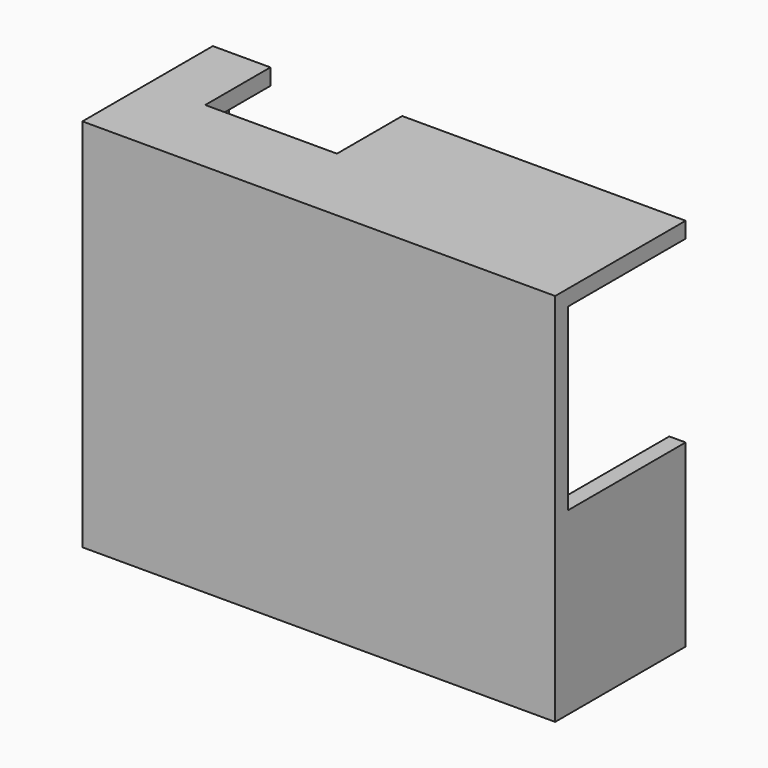
from build123d import *

# Parameters (mm, degrees)
F0_W     = 29
F0_H     = 23
F0_W_2   = 27
F0_H_2   = 21
F1_DEPTH = 10
F2_DEPTH = 9
F3_W     = 1.23707
F3_H     = 11.001679
F4_DEPTH = 9
F5_W     = 8.081423
F5_H     = 0.370867
F6_DEPTH = 5


with BuildPart() as f1:
    # F0 (on Front) → F1 (new body)
    with BuildSketch(Plane.XZ):
        Rectangle(F0_W, F0_H)
        Rectangle(F0_W_2, F0_H_2, mode=Mode.SUBTRACT)
        Rectangle(F0_W_2, F0_H_2)
    extrude(amount=F1_DEPTH)

    # F0 (on Front) → F2 (cut)
    with BuildSketch(Plane.XZ):
        Rectangle(F0_W_2, F0_H_2)
    extrude(amount=F2_DEPTH, mode=Mode.SUBTRACT)

    # F3 (on face) → F4 (cut)
    with BuildSketch(Plane.XZ):
        with Locations((14.021569, 5.029028)):
            Rectangle(F3_W, F3_H)
    extrude(amount=F4_DEPTH, mode=Mode.SUBTRACT)

    # F5 (on face) → F6 (cut)
    with BuildSketch(Plane.XZ):
        Polygon((-10.967096, 11.561035), (-10.967096, 11.5), (-2.885673, 11.5), (-2.885673, 11.855262), (-10.967096, 11.855262), align=None)
        with Locations((-6.926384, 10.314566)):
            Rectangle(F5_W, F5_H)
        Polygon((-10.967096, 11.5), (-10.967096, 10.521435), (-10.967096, 10.5), (-2.885673, 10.5), (-2.885673, 11.5), align=None)
    extrude(amount=F6_DEPTH, mode=Mode.SUBTRACT)


solid = f1.part
